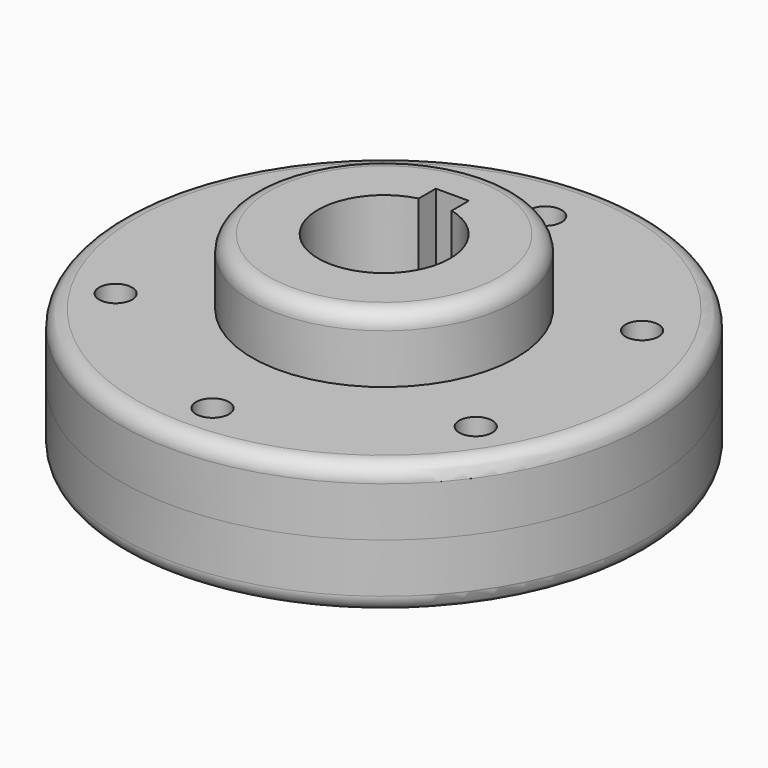
from build123d import *

# Parameters (mm, degrees)
F0_R     = 25.4
F0_R_2   = 50.8
F0_R_3   = 3.175
F1_DEPTH = 12.7
F2_DEPTH = 25.4
F3_R     = 3.175
F4_DEPTH = 6.35


with BuildPart() as f1:
    # F0 (on Top) → F1 (new body)
    with BuildSketch(Plane.XY):
        Circle(F0_R)
        with BuildLine():
            ThreePointArc((3.175, 12.296722), (0, -12.7), (-3.175, 12.296722))
            Line((-3.175, 12.296722), (-3.175, 16.4084))
            Line((-3.175, 16.4084), (0, 16.4084))
            Line((0, 16.4084), (3.175, 16.4084))
            Line((3.175, 16.4084), (3.175, 12.296722))
        make_face(mode=Mode.SUBTRACT)
        Circle(F0_R_2)
        with Locations((0, -41.275)):
            Circle(F0_R_3, mode=Mode.SUBTRACT)
        with Locations((-34.649091, -21.270338)):
            Circle(F0_R_3, mode=Mode.SUBTRACT)
        Circle(F0_R, mode=Mode.SUBTRACT)
        with Locations((34.649091, -21.270338)):
            Circle(F0_R_3, mode=Mode.SUBTRACT)
        with Locations((-34.649091, 18.738987)):
            Circle(F0_R_3, mode=Mode.SUBTRACT)
        with Locations((0, 38.743649)):
            Circle(F0_R_3, mode=Mode.SUBTRACT)
        with Locations((34.649091, 18.738987)):
            Circle(F0_R_3, mode=Mode.SUBTRACT)
    extrude(amount=F1_DEPTH)

    # F0 (on Top) → F2 (join)
    with BuildSketch(Plane.XY):
        Circle(F0_R)
        with BuildLine():
            ThreePointArc((3.175, 12.296722), (0, -12.7), (-3.175, 12.296722))
            Line((-3.175, 12.296722), (-3.175, 16.4084))
            Line((-3.175, 16.4084), (0, 16.4084))
            Line((0, 16.4084), (3.175, 16.4084))
            Line((3.175, 16.4084), (3.175, 12.296722))
        make_face(mode=Mode.SUBTRACT)
    extrude(amount=F2_DEPTH)

    # F3
    f3_edges = [f1.edges().sort_by_distance(p)[0] for p in [
        (-25.4, 0, 25.4),
        (-50.8, 0, 12.7),
    ]]
    fillet(f3_edges, radius=F3_R)

    # F0 (on Top) → F4 (join)
    with BuildSketch(Plane.XY):
        with BuildLine():
            Line((-3.175, 16.4084), (-3.175, 12.296722))
            ThreePointArc((-3.175, 12.296722), (0, 12.7), (3.175, 12.296722))
            Line((3.175, 12.296722), (3.175, 16.4084))
            Line((3.175, 16.4084), (0, 16.4084))
            Line((0, 16.4084), (-3.175, 16.4084))
        make_face()
    extrude(amount=F4_DEPTH)


with BuildPart() as f5_1:
    # F5: instance of F1
    add(f1.part.mirror(Plane.XY))


solid = Compound([f1.part, f5_1.part])
